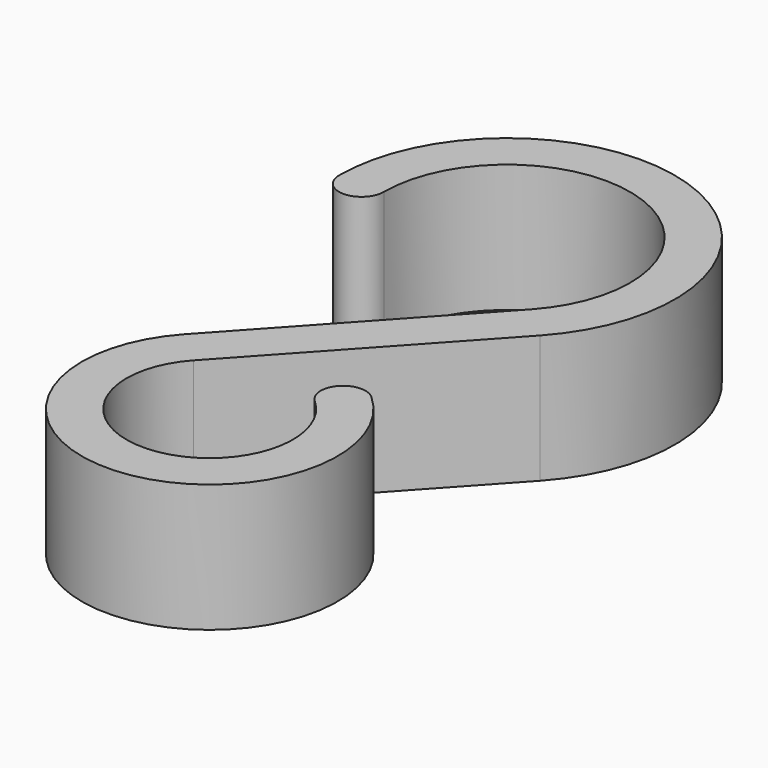
from build123d import *

# Parameters (mm, degrees)
F1_DEPTH = 10


with BuildPart() as f1:
    # F0 (on Top) → F1 (new body)
    with BuildSketch(Plane.XY):
        with BuildLine():
            ThreePointArc((-9.625, 0), (3.488365, 8.970615), (7.096441, -6.502396))
            Line((7.096441, -6.502396), (-7.372926, -22.293653))
            ThreePointArc((-7.372926, -22.293653), (0.465493, -39.038549), (6.712706, -21.637265))
            ThreePointArc((6.712706, -21.637265), (4.240861, -21.759663), (4.363259, -24.231508))
            ThreePointArc((4.363259, -24.231508), (0.302571, -35.542343), (-4.792402, -24.658161))
            Line((-4.792402, -24.658161), (9.676965, -8.866903))
            ThreePointArc((9.676965, -8.866903), (4.756861, 12.232657), (-13.125, 0))
            ThreePointArc((-13.125, 0), (-11.375, -1.75), (-9.625, 0))
        make_face()
    extrude(amount=F1_DEPTH)


solid = f1.part
